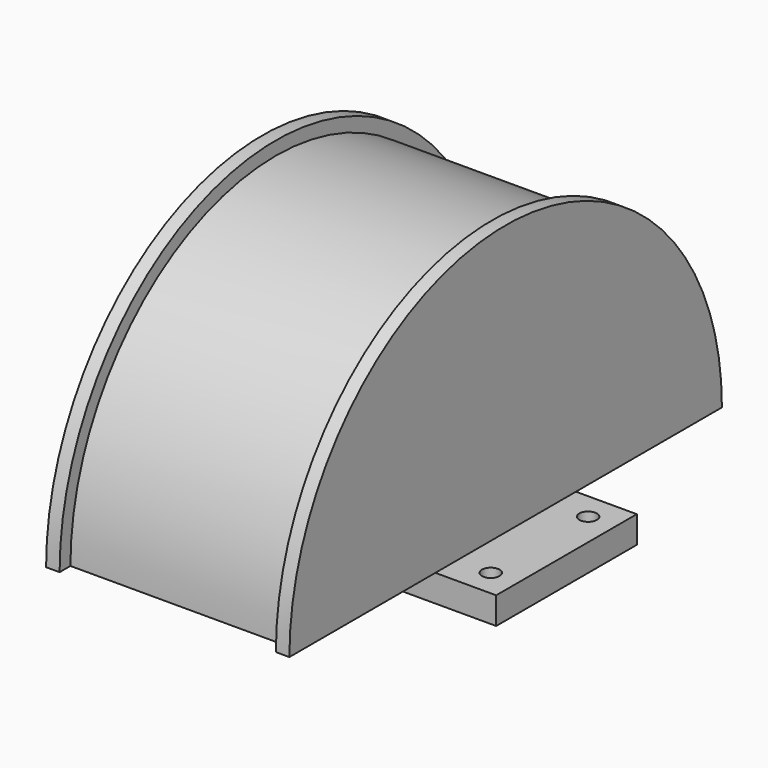
from build123d import *

# Parameters (mm, degrees)
F0_W     = 135
F0_H     = 65
F0_R     = 3.25
F0_R_2   = 4
F1_DEPTH = 10
F3_ANGLE = -180


with BuildPart() as f1:
    # F0 (on Top) → F1 (new body)
    with BuildSketch(Plane.XY):
        Rectangle(F0_W, F0_H)
        with Locations((-57.5, -22.5)):
            Circle(F0_R, mode=Mode.SUBTRACT)
        with Locations((57.5, -22.5)):
            Circle(F0_R, mode=Mode.SUBTRACT)
        with Locations((-20, 0)):
            Circle(F0_R_2, mode=Mode.SUBTRACT)
        with Locations((-57.5, 22.5)):
            Circle(F0_R, mode=Mode.SUBTRACT)
        with Locations((20, 0)):
            Circle(F0_R_2, mode=Mode.SUBTRACT)
        with Locations((57.5, 22.5)):
            Circle(F0_R, mode=Mode.SUBTRACT)
    extrude(amount=F1_DEPTH)

    # F2 (on face) → F3 (revolve)
    with BuildSketch(Plane.XY.offset(10)):
        Polygon((40, 0), (0, 0), (-40, 0), (-40, -95), (0, -95), (40, -95), align=None)
        Polygon((-40, -95), (-40, 0), (-45, 0), (-45, -100), (-40, -100), align=None)
        Polygon((45, 0), (40, 0), (40, -95), (40, -100), (45, -100), align=None)
    revolve(axis=Axis((-5.601771, 0, 10), (1, 0, 0)), revolution_arc=F3_ANGLE)


solid = f1.part
